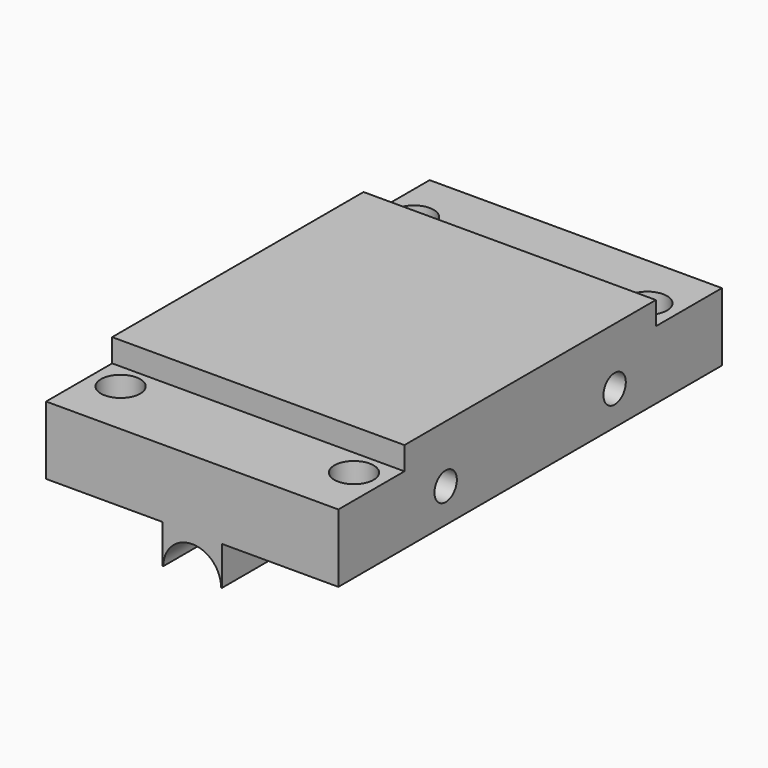
from build123d import *

# Parameters (mm, degrees)
F1_DEPTH = 20.75
F2_W     = 25.3
F2_H     = 27.2
F3_DEPTH = 2
F2_R     = 1.7
F4_DEPTH = 9.251
F5_W     = 27.7
F5_H     = 3.35
F5_R     = 1.21
F6_DEPTH = 25.301


with BuildPart() as f1:
    # F0 (on Front) → F1 (new body, symmetric)
    with BuildSketch(Plane.XZ):
        Polygon((16.2885056366, 5.9), (-9.0114943634, 5.9), (-9.0114943634, 0), (1.0585056366, 0), (6.2185056366, 0), (16.2885056366, 0), align=None)
        with BuildLine():
            Line((6.2185056366, 0), (1.0585056366, 0))
            Line((1.0585056366, 0), (1.0585056366, -3.35))
            Line((1.0585056366, -3.35), (1.1385056366, -3.35))
            ThreePointArc((1.1385056366, -3.35), (3.6385056366, -0.85), (6.1385056366, -3.35))
            Line((6.1385056366, -3.35), (6.2185056366, -3.35))
            Line((6.2185056366, -3.35), (6.2185056366, 0))
        make_face()
    extrude(amount=F1_DEPTH, both=True)

    # F2 (on face) → F3 (join)
    with BuildSketch(Plane.XY.offset(5.9)):
        with Locations((3.6385056366, 0)):
            Rectangle(F2_W, F2_H)
    extrude(amount=F3_DEPTH)

    # F2 (on face) → F4 (cut, through all)
    with BuildSketch(Plane.XY.offset(5.9)):
        with Locations((13.7385056366, 15.875)):
            Circle(F2_R)
        with Locations((-6.4614943634, 15.875)):
            Circle(F2_R)
        with Locations((-6.4614943634, -15.875)):
            Circle(F2_R)
        with Locations((13.7385056366, -15.875)):
            Circle(F2_R)
    extrude(amount=-F4_DEPTH, mode=Mode.SUBTRACT)

    # F5 (on face) → F6 (cut, through all)
    with BuildSketch(Plane(origin=(-9.0114943634, 0, 0), x_dir=(0, -1, 0), z_dir=(-1, 0, 0))):
        with Locations((0, -1.675)):
            Rectangle(F5_W, F5_H)
        with Locations((9.14, 2.95)):
            Circle(F5_R)
        with Locations((-9.14, 2.95)):
            Circle(F5_R)
    extrude(amount=-F6_DEPTH, mode=Mode.SUBTRACT)


solid = f1.part
